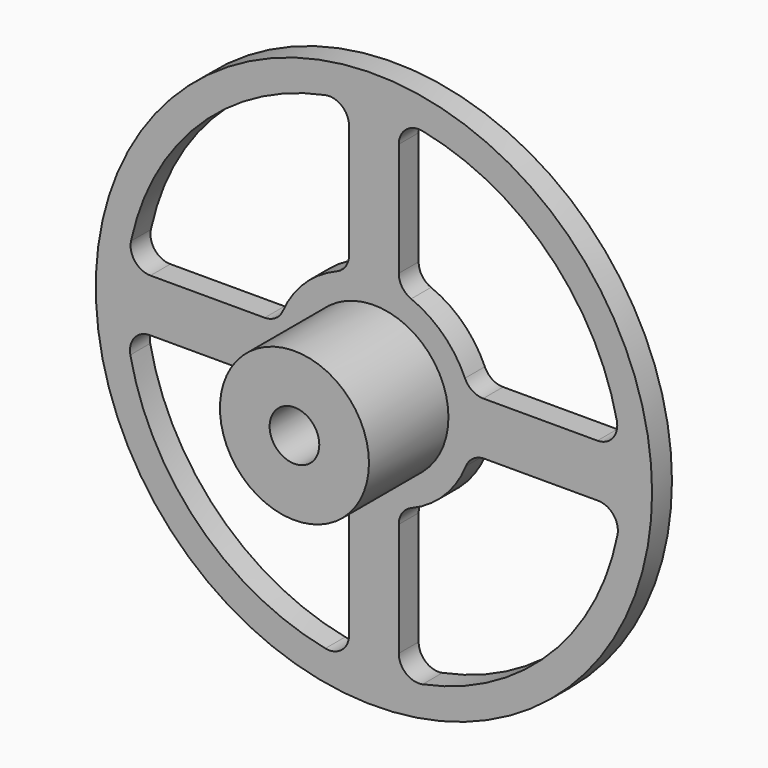
from build123d import *

# Parameters (mm, degrees)
F0_R     = 71.12
F0_R_2   = 6.35
F1_DEPTH = 6.35
F2_R     = 19.05
F2_R_2   = 6.35
F3_DEPTH = 25.4


with BuildPart() as f1:
    # F0 (on Front) → F1 (new body)
    with BuildSketch(Plane.XZ):
        Circle(F0_R)
        with BuildLine():
            ThreePointArc((-28.255716, -6.35), (-25.41591, -7.217887), (-23.54643, -9.525))
            ThreePointArc((-23.54643, -9.525), (-17.960512, -17.960512), (-9.525, -23.54643))
            ThreePointArc((-9.525, -23.54643), (-7.217887, -25.41591), (-6.35, -28.255716))
            Line((-6.35, -28.255716), (-6.35, -57.290937))
            ThreePointArc((-6.35, -57.290937), (-8.208407, -61.218753), (-12.423913, -62.272758))
            ThreePointArc((-12.423913, -62.272758), (-44.901281, -44.901281), (-62.272758, -12.423913))
            ThreePointArc((-62.272758, -12.423913), (-61.218753, -8.208407), (-57.290937, -6.35))
            Line((-57.290937, -6.35), (-28.255716, -6.35))
        make_face(mode=Mode.SUBTRACT)
        Circle(F0_R_2, mode=Mode.SUBTRACT)
        with BuildLine():
            Line((6.35, -57.290937), (6.35, -28.255716))
            ThreePointArc((6.35, -28.255716), (7.217887, -25.41591), (9.525, -23.54643))
            ThreePointArc((9.525, -23.54643), (17.960512, -17.960512), (23.54643, -9.525))
            ThreePointArc((23.54643, -9.525), (25.41591, -7.217887), (28.255716, -6.35))
            Line((28.255716, -6.35), (57.290937, -6.35))
            ThreePointArc((57.290937, -6.35), (61.218753, -8.208407), (62.272758, -12.423913))
            ThreePointArc((62.272758, -12.423913), (44.901281, -44.901281), (12.423913, -62.272758))
            ThreePointArc((12.423913, -62.272758), (8.208407, -61.218753), (6.35, -57.290937))
        make_face(mode=Mode.SUBTRACT)
        with BuildLine():
            ThreePointArc((-6.35, 28.255716), (-7.217887, 25.41591), (-9.525, 23.54643))
            ThreePointArc((-9.525, 23.54643), (-17.715323, 18.202399), (-23.279485, 10.16))
            ThreePointArc((-23.279485, 10.16), (-25.152951, 7.941767), (-27.935381, 7.112))
            Line((-27.935381, 7.112), (-57.133629, 7.112))
            ThreePointArc((-57.133629, 7.112), (-61.082811, 8.996635), (-62.10177, 13.252174))
            ThreePointArc((-62.10177, 13.252174), (-44.601276, 45.199294), (-12.423913, 62.272758))
            ThreePointArc((-12.423913, 62.272758), (-8.208407, 61.218753), (-6.35, 57.290937))
            Line((-6.35, 57.290937), (-6.35, 28.255716))
        make_face(mode=Mode.SUBTRACT)
        with BuildLine():
            Line((57.133629, 7.112), (27.935381, 7.112))
            ThreePointArc((27.935381, 7.112), (25.152951, 7.941767), (23.279485, 10.16))
            ThreePointArc((23.279485, 10.16), (17.715323, 18.202399), (9.525, 23.54643))
            ThreePointArc((9.525, 23.54643), (7.217887, 25.41591), (6.35, 28.255716))
            Line((6.35, 28.255716), (6.35, 57.290937))
            ThreePointArc((6.35, 57.290937), (8.208407, 61.218753), (12.423913, 62.272758))
            ThreePointArc((12.423913, 62.272758), (44.601276, 45.199294), (62.10177, 13.252174))
            ThreePointArc((62.10177, 13.252174), (61.082811, 8.996635), (57.133629, 7.112))
        make_face(mode=Mode.SUBTRACT)
    extrude(amount=F1_DEPTH)

    # F2 (on face) → F3 (join)
    with BuildSketch(Plane.XZ.offset(6.35)):
        Circle(F2_R)
        Circle(F2_R_2, mode=Mode.SUBTRACT)
    extrude(amount=F3_DEPTH)


solid = f1.part
